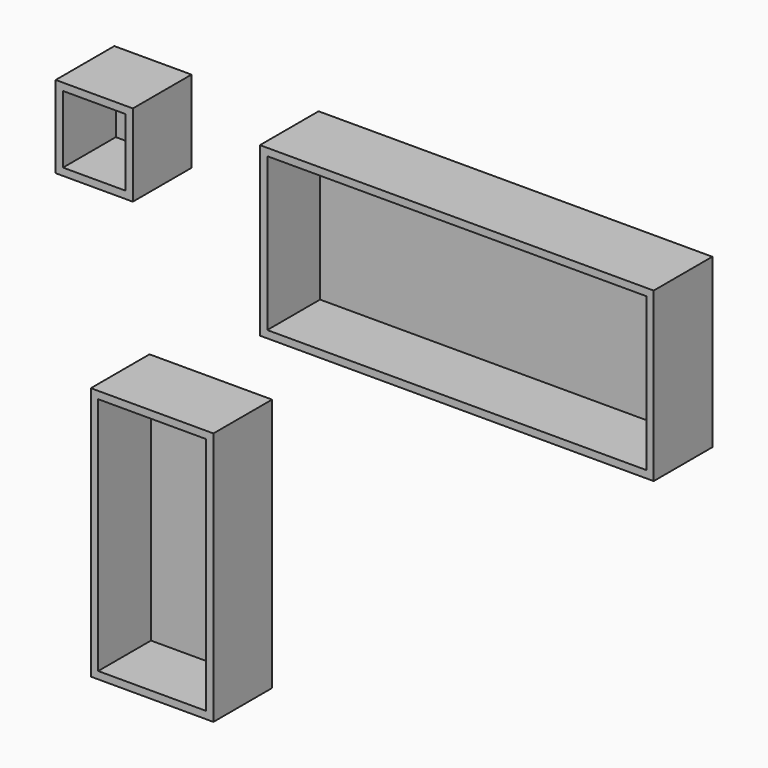
from build123d import *

# Parameters (mm, degrees)
F0_W     = 26.7351791263
F0_H     = 28.4533537924
F1_DEPTH = 25.4
F0_W_2   = 136.4281037822
F0_H_2   = 58.1214046106
F0_W_3   = 42.4617677927
F0_H_3   = 87.9993084818
F2_T     = -2.54
F2_2_T   = -2.54
F2_3_T   = -2.54


with BuildPart() as f1:
    # F0 (on Front) → F1 (new body)
    with BuildSketch(Plane.XZ):
        with Locations((-72.932023555, 51.6817774624)):
            Rectangle(F0_W, F0_H)
    extrude(amount=F1_DEPTH)

    # F2
    f2_openings = [f1.faces().sort_by_distance(p)[0] for p in [
        (-72.932024, -25.4, 51.681777),
    ]]
    offset(amount=F2_T, openings=f2_openings)


with BuildPart() as f1b:
    # F0 (on Front) → F1, piece 2 (new body)
    with BuildSketch(Plane.XZ):
        with Locations((52.684053313, 39.9779421277)):
            Rectangle(F0_W_2, F0_H_2)
    extrude(amount=F1_DEPTH)

    # F2#2
    f2_2_openings = [f1b.faces().sort_by_distance(p)[0] for p in [
        (52.684053, -25.4, 39.977942),
    ]]
    offset(amount=F2_2_T, openings=f2_2_openings)


with BuildPart() as f1c:
    # F0 (on Front) → F1, piece 3 (new body)
    with BuildSketch(Plane.XZ):
        with Locations((-52.8806298971, -68.1459559128)):
            Rectangle(F0_W_3, F0_H_3)
    extrude(amount=F1_DEPTH)

    # F2#3
    f2_3_openings = [f1c.faces().sort_by_distance(p)[0] for p in [
        (-52.88063, -25.4, -68.145956),
    ]]
    offset(amount=F2_3_T, openings=f2_3_openings)


solid = Compound([f1.part, f1b.part, f1c.part])
